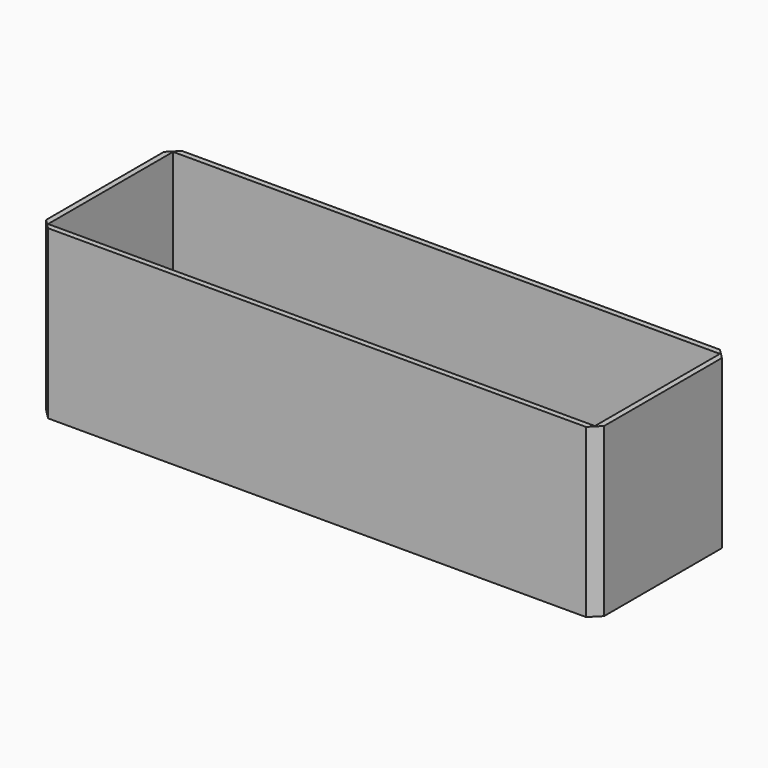
from build123d import *

# Parameters (mm, degrees)
F0_W     = 500
F0_H     = 150
F1_DEPTH = 150
F2_W     = 490
F2_H     = 140
F3_DEPTH = 145
F4_SIZE  = 9
F5_SIZE  = 9


with BuildPart() as f1:
    # F0 (on Top) → F1 (new body)
    with BuildSketch(Plane.XY):
        with Locations((3.85901, 2.15064)):
            Rectangle(F0_W, F0_H)
    extrude(amount=F1_DEPTH)

    # F2 (on face) → F3 (cut)
    with BuildSketch(Plane.XY.offset(150)):
        with Locations((3.85901, 2.15064)):
            Rectangle(F2_W, F2_H)
    extrude(amount=-F3_DEPTH, mode=Mode.SUBTRACT)

    # F4
    f4_edges = [f1.edges().sort_by_distance(p)[0] for p in [
        (253.85901, -72.84936, 75),
    ]]
    chamfer(f4_edges, length=F4_SIZE)

    # F5
    f5_edges = [f1.edges().sort_by_distance(p)[0] for p in [
        (253.85901, 77.15064, 75),
        (-246.14099, 77.15064, 75),
        (-246.14099, -72.84936, 75),
    ]]
    chamfer(f5_edges, length=F5_SIZE)


solid = f1.part
